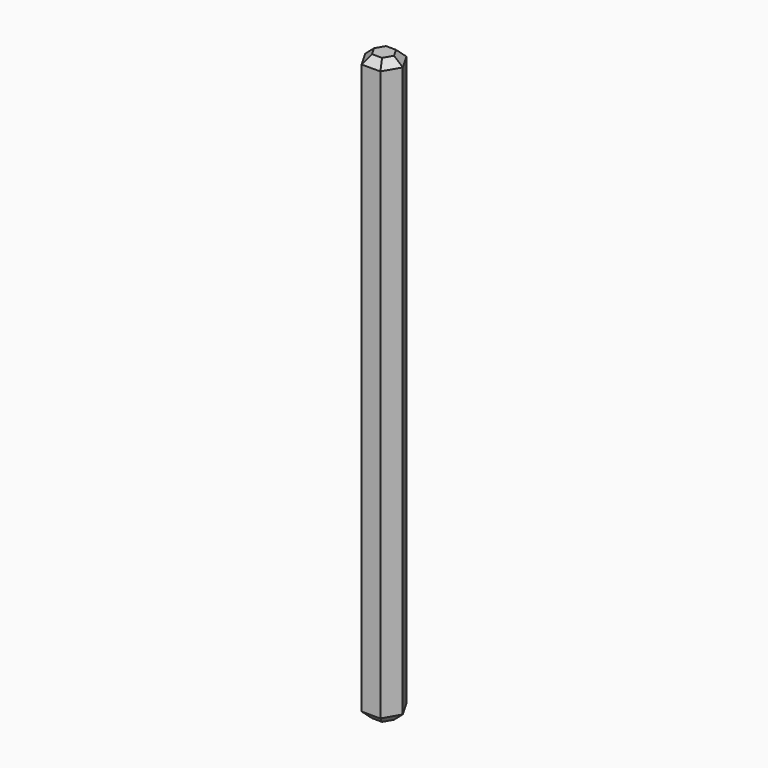
from build123d import *

# Parameters (mm, degrees)
F1_DEPTH = 99.06
F2_SIZE  = 1.27
F3_SIZE  = 1.27


with BuildPart() as f1:
    # F0 (on Top) → F1 (new body)
    with BuildSketch(Plane.XY):
        Polygon((1.5875, -2.749631), (3.175, 0), (1.5875, 2.749631), (-1.5875, 2.749631), (-3.175, 0), (-1.5875, -2.749631), align=None)
    extrude(amount=F1_DEPTH)

    # F2
    f2_edges = [f1.edges().sort_by_distance(p)[0] for p in [
        (0, -2.749631, 99.06),
        (2.38125, -1.374815, 99.06),
        (2.38125, 1.374815, 99.06),
        (0, 2.749631, 99.06),
        (-2.38125, 1.374815, 99.06),
        (-2.38125, -1.374815, 99.06),
    ]]
    chamfer(f2_edges, length=F2_SIZE)

    # F3
    f3_edges = [f1.edges().sort_by_distance(p)[0] for p in [
        (0, -2.749631, 0),
        (2.38125, -1.374815, 0),
        (2.38125, 1.374815, 0),
        (0, 2.749631, 0),
        (-2.38125, 1.374815, 0),
        (-2.38125, -1.374815, 0),
    ]]
    chamfer(f3_edges, length=F3_SIZE)


solid = f1.part
